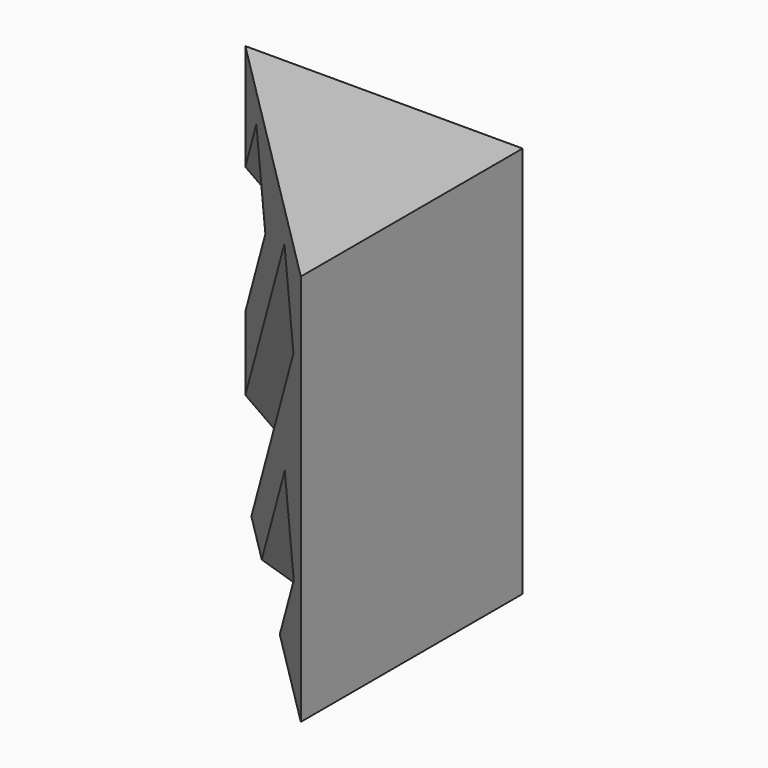
from build123d import *

# Parameters (mm, degrees)
F1_DEPTH      = 56.5685424949
F6_DEPTH      = 50
F6_DEPTH_BACK = 5
F7_DEPTH      = 25
F7_DEPTH_BACK = 50


with BuildPart() as f1:
    # F0 (on Top) → F1 (new body)
    with BuildSketch(Plane.XY):
        Polygon((20, -20), (20, 20), (-20, 20), align=None)
    extrude(amount=F1_DEPTH)

    # F4 (on face) → F6 (cut, two sides)
    with BuildSketch(Plane(origin=(10, -10, 14.1421356237), x_dir=(0.8660254038, 0.2886751346, -0.4082482905), z_dir=(-0.5, 0.5, -0.7071067812))) as f6_sk:
        Polygon((-20.8771324027, -29.5247237874), (-28.3771324027, -40.1313255052), (-18.3771324027, -36.5957915992), align=None)
        Polygon((2.7831216351, 3.9359283621), (-4.7168783649, -6.6706733557), (5.2831216351, -3.1351394497), align=None)
    extrude(amount=F6_DEPTH, mode=Mode.SUBTRACT)
    extrude(f6_sk.sketch, amount=-F6_DEPTH_BACK, mode=Mode.SUBTRACT)

    # F4 (on face) → F7 (cut, two sides)
    with BuildSketch(Plane(origin=(10, -10, 14.1421356237), x_dir=(0.8660254038, 0.2886751346, -0.4082482905), z_dir=(-0.5, 0.5, -0.7071067812))) as f7_sk:
        Polygon((-11.5470053838, -16.3299316186), (-16.5470053838, -23.4009994304), (-6.5470053838, -19.8654655245), (-9.0470053838, -12.7943977126), align=None)
    extrude(amount=-F7_DEPTH, mode=Mode.SUBTRACT)
    extrude(f7_sk.sketch, amount=F7_DEPTH_BACK, mode=Mode.SUBTRACT)


solid = f1.part
